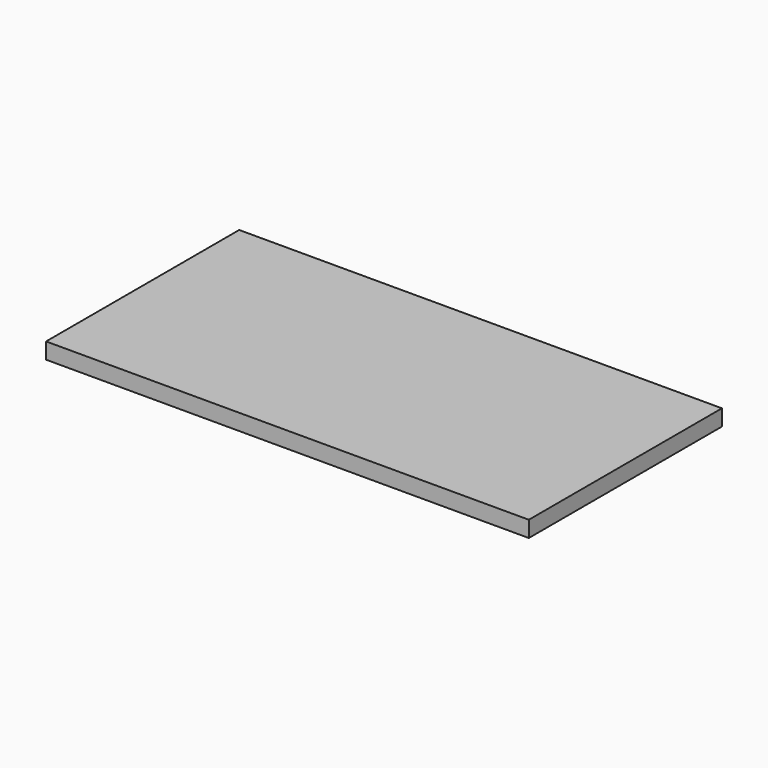
from build123d import *

# Parameters (mm, degrees)
SKETCH_W  = 150
SKETCH_H  = 75
PAD_DEPTH = 5


with BuildPart() as part:
    # Sketch → Pad (new body)
    with BuildSketch(Plane.XY):
        with Locations((38.826168, 20.306517)):
            Rectangle(SKETCH_W, SKETCH_H)
    extrude(amount=PAD_DEPTH)


solid = part.part
